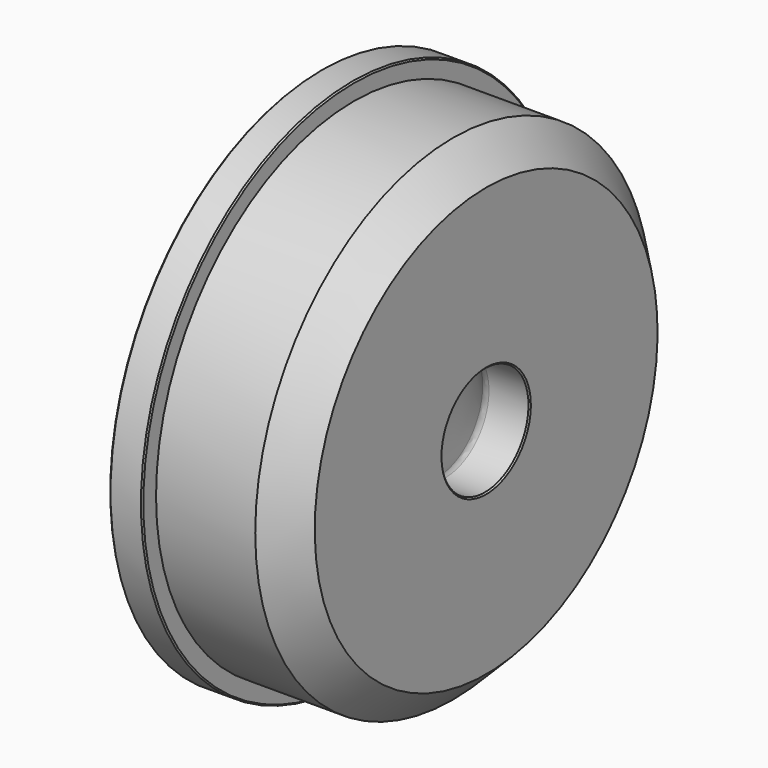
from build123d import *

# Parameters (mm, degrees)
F2_SIZE = 5
F3_SIZE = 0.2
F4_R    = 2


with BuildPart() as f1:
    # F0 (on Front) → F1 (revolve)
    with BuildSketch(Plane.XZ):
        Polygon((0, 40), (0, 26.25), (18, 8.25), (25, 8.25), (25, 37.4), (5, 37.4), (5, 40), align=None)
    revolve(axis=Axis((12.5, 0, 0), (-1, 0, 0)))

    # F2
    f2_edges = [f1.edges().sort_by_distance(p)[0] for p in [
        (25, 0, -37.4),
    ]]
    chamfer(f2_edges, length=F2_SIZE)

    # F3
    f3_edges = [f1.edges().sort_by_distance(p)[0] for p in [
        (25, 0, -8.25),
        (5, 0, -40),
        (0, 0, -40),
    ]]
    chamfer(f3_edges, length=F3_SIZE)

    # F4
    f4_edges = [f1.edges().sort_by_distance(p)[0] for p in [
        (18, 0, -8.25),
    ]]
    fillet(f4_edges, radius=F4_R)


solid = f1.part
